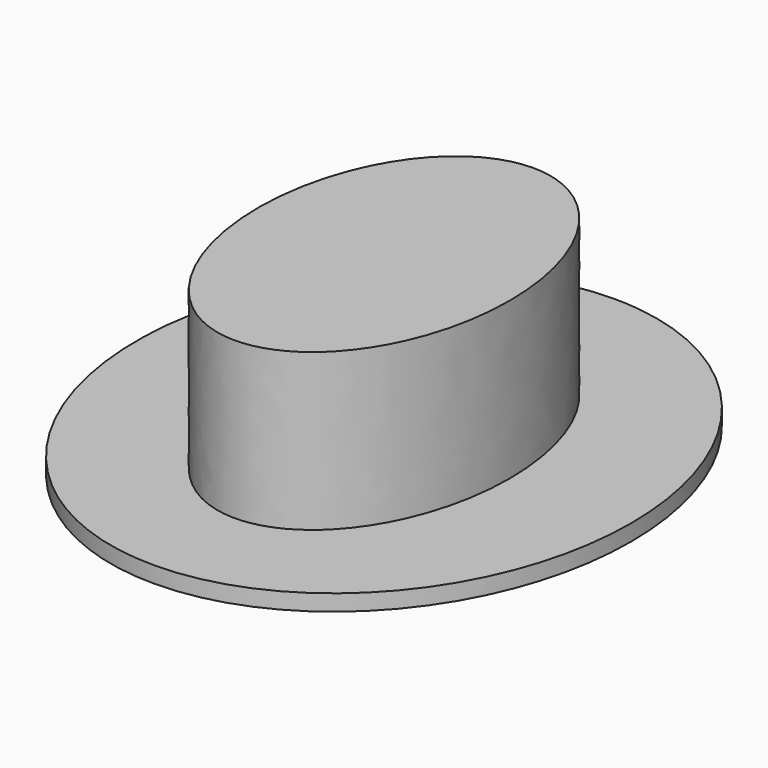
from build123d import *

# Parameters (mm, degrees)
F1_DEPTH = 40.64
F2_DEPTH = 3.81


with BuildPart() as f1:
    # F0 (on Top) → F1 (new body)
    with BuildSketch(Plane.XY):
        with BuildLine():
            add(Edge.make_bspline(
                [(0, 43.919571), (-51.267129, 43.919571), (-25.633564, -21.959785), (0, -87.839141), (25.633564, -21.959785), (51.267129, 43.919571), (0, 43.919571)],
                knots=[0, 0, 0, 2.094395, 2.094395, 4.18879, 4.18879, 6.283185, 6.283185, 6.283185], degree=2, weights=[1, 0.5, 1, 0.5, 1, 0.5, 1]))
        make_face()
    extrude(amount=F1_DEPTH)

    # F0 (on Top) → F2 (join)
    with BuildSketch(Plane.XY):
        with BuildLine():
            add(Edge.make_bspline(
                [(0, 67.788899), (-100.691277, 67.788899), (-50.345639, -33.894449), (0, -135.577798), (50.345639, -33.894449), (100.691277, 67.788899), (0, 67.788899)],
                knots=[0, 0, 0, 2.094395, 2.094395, 4.18879, 4.18879, 6.283185, 6.283185, 6.283185], degree=2, weights=[1, 0.5, 1, 0.5, 1, 0.5, 1]))
        make_face()
        with BuildLine():
            add(Edge.make_bspline(
                [(0, 43.919571), (-51.267129, 43.919571), (-25.633564, -21.959785), (0, -87.839141), (25.633564, -21.959785), (51.267129, 43.919571), (0, 43.919571)],
                knots=[0, 0, 0, 2.094395, 2.094395, 4.18879, 4.18879, 6.283185, 6.283185, 6.283185], degree=2, weights=[1, 0.5, 1, 0.5, 1, 0.5, 1]))
        make_face(mode=Mode.SUBTRACT)
    extrude(amount=F2_DEPTH)


solid = f1.part
